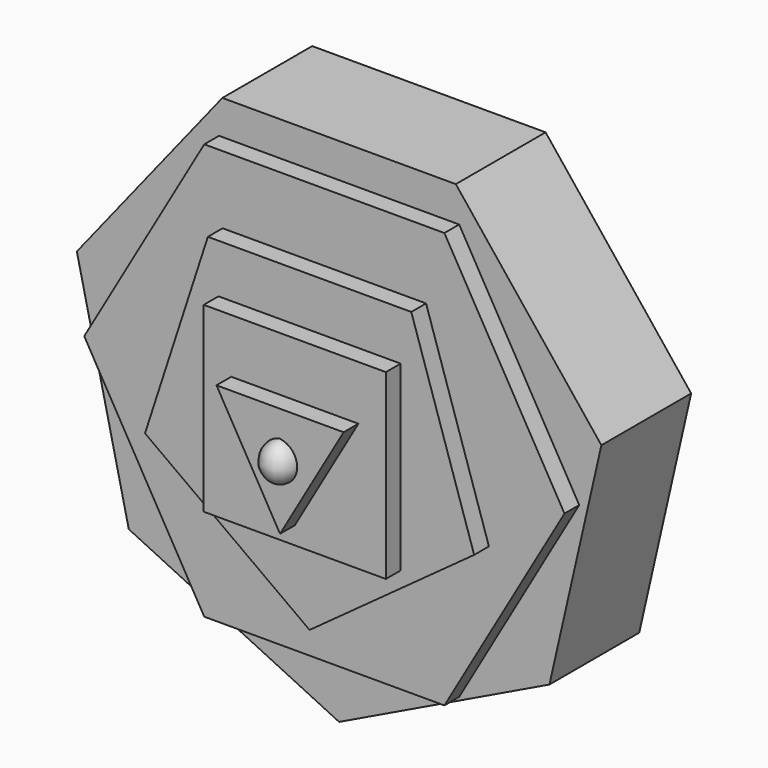
from build123d import *

# Parameters (mm, degrees)
F1_DEPTH  = 5
F3_DEPTH  = 5
F5_DEPTH  = 5
F6_W      = 49.3313185871
F6_H      = 49.3313185871
F7_DEPTH  = 5
F9_DEPTH  = 5
F10_T     = -2.54
F13_DEPTH = 25.4


with BuildPart() as f1:
    # F0 (on Front) → F1 (new body)
    with BuildSketch(Plane.XZ):
        Polygon((31.6165188627, 65.6523779035), (-31.6165188627, 65.6523779035), (-71.041673025, 16.2147982777), (-56.9709984134, -45.4328551728), (0, -72.8686420168), (56.9709984134, -45.4328551728), (71.041673025, 16.2147982777), align=None)
    extrude(amount=F1_DEPTH)

    # F2 (on face) → F3 (join)
    with BuildSketch(Plane.XZ.offset(5)):
        Polygon((32.5198646112, 56.3260577619), (-32.5198646112, 56.3260577619), (-65.0397292225, 0), (-32.5198646112, -56.3260577619), (32.5198646112, -56.3260577619), (65.0397292225, 0), align=None)
    extrude(amount=F3_DEPTH)

    # F4 (on face) → F5 (join)
    with BuildSketch(Plane.XZ.offset(10)):
        Polygon((27.5496577044, 37.9188507795), (-27.5496577044, 37.9188507795), (-44.5762825442, -14.4837121834), (0, -46.8702771922), (44.5762825442, -14.4837121834), align=None)
    extrude(amount=F5_DEPTH)

    # F6 (on face) → F7 (join)
    with BuildSketch(Plane.XZ.offset(15)):
        Rectangle(F6_W, F6_H)
    extrude(amount=F7_DEPTH)

    # F8 (on face) → F9 (join)
    with BuildSketch(Plane.XZ.offset(20)):
        Polygon((17.2163983425, 9.9398922175), (-17.2163983425, 9.9398922175), (0, -19.879784435), align=None)
    extrude(amount=F9_DEPTH)

    # F10
    f10_openings = [f1.faces().sort_by_distance(p)[0] for p in [
        (0, 0, 0),
    ]]
    offset(amount=F10_T, openings=f10_openings, kind=Kind.INTERSECTION)

    # F11 (on face) → F12 (revolve)
    with BuildSketch(Plane.XZ.offset(25)):
        with BuildLine():
            Line((0, -7.8104953282), (0, 2.7757391799))
            ThreePointArc((0, 2.7757391799), (-4.6434074356, -2.5173780741), (0, -7.8104953282))
        make_face()
    revolve(axis=Axis((0, -25, -2.5173780741), (0, 0, -1)))

    # F13 (add): a face of the model
    f13_faces = [f1.faces().sort_by_distance(p)[0] for p in [
        (49.7776824127, 0, 39.6963770844),
    ]]
    extrude(f13_faces, amount=F13_DEPTH)


solid = f1.part
